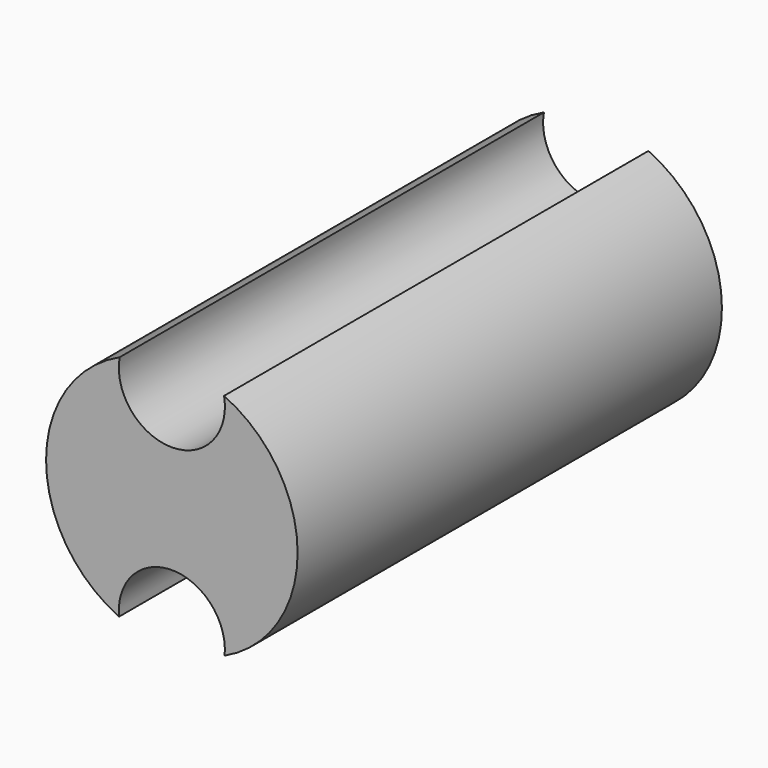
from build123d import *

# Parameters (mm, degrees)
F0_R     = 5.928
F1_DEPTH = 25
F3_D     = 5
F3_DEPTH = 30


with BuildPart() as f1:
    # F0 (on Front) → F1 (new body)
    with BuildSketch(Plane.XZ):
        with Locations((-62.680371, 5.135893)):
            Circle(F0_R)
    extrude(amount=F1_DEPTH)

    # F3
    with Locations(Plane(origin=(0, 0, 0), x_dir=(-1, 0, 0), z_dir=(0, 1, 0))):
        with Locations((62.680371, 0), (62.680371, 10.090793)):
            Hole(F3_D / 2, depth=F3_DEPTH)


solid = f1.part
